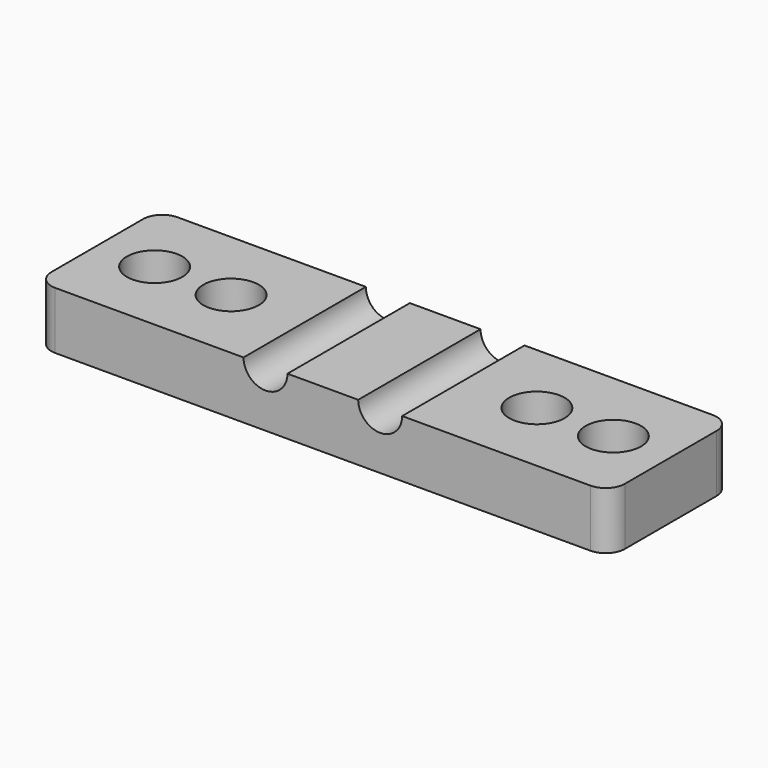
from build123d import *

# Parameters (mm, degrees)
F0_W     = 6
F0_H     = 8
F0_W_2   = 18
F1_DEPTH = 3
F2_D     = 2.9
F4_D     = 2.3
F5_R     = 1


with BuildPart() as f1:
    # F0 (on Top) → F1 (new body)
    with BuildSketch(Plane.XY):
        Rectangle(F0_W, F0_H)
        with Locations((12, 0)):
            Rectangle(F0_W_2, F0_H)
        with Locations((24, 0)):
            Rectangle(F0_W, F0_H)
    extrude(amount=-F1_DEPTH)

    # F2 (through all)
    with Locations(Plane.XY):
        with Locations((0, 0), (4, 0), (20, 0), (24, 0)):
            Hole(F2_D / 2)

    # F4 (through all)
    with Locations(Plane.XZ.offset(4)):
        with Locations((9, 0), (15, 0)):
            Hole(F4_D / 2)

    # F5
    f5_edges = [f1.edges().sort_by_distance(p)[0] for p in [
        (-3, -4, -1.5),
        (27, -4, -1.5),
        (27, 4, -1.5),
        (-3, 4, -1.5),
    ]]
    fillet(f5_edges, radius=F5_R)


solid = f1.part
